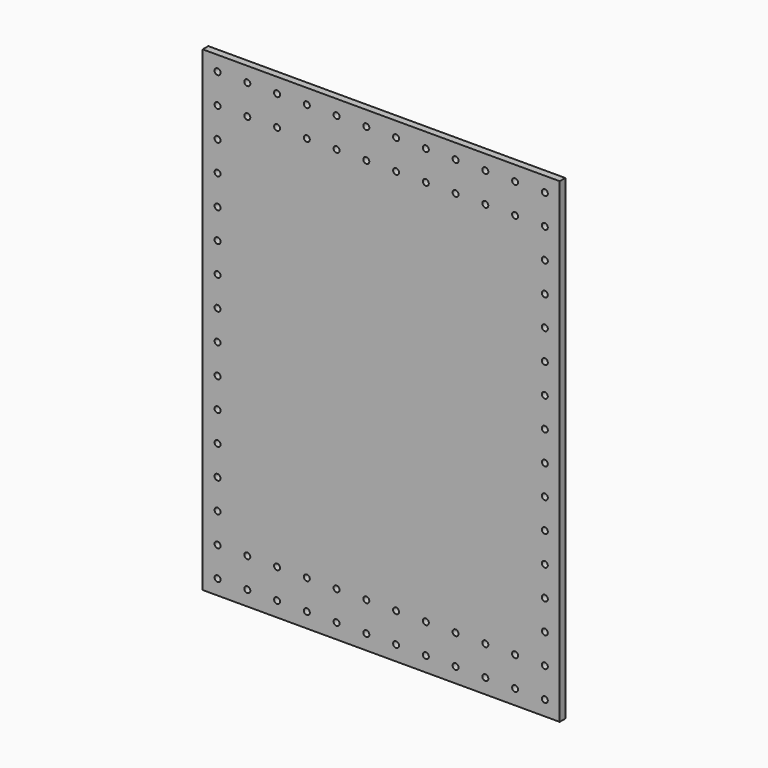
from build123d import *

# Parameters (mm, degrees)
F0_W     = 304.8
F0_H     = 406.4
F0_R     = 2.5527
F1_DEPTH = 6


with BuildPart() as f1:
    # F0 (on Front) → F1 (new body)
    with BuildSketch(Plane.XZ):
        Rectangle(F0_W, F0_H)
        with Locations((-139.7, -190.5)):
            Circle(F0_R, mode=Mode.SUBTRACT)
        with Locations((-139.7, -165.1)):
            Circle(F0_R, mode=Mode.SUBTRACT)
        with Locations((-114.3, -190.5)):
            Circle(F0_R, mode=Mode.SUBTRACT)
        with Locations((-88.9, -190.5)):
            Circle(F0_R, mode=Mode.SUBTRACT)
        with Locations((-114.3, -165.1)):
            Circle(F0_R, mode=Mode.SUBTRACT)
        with Locations((-88.9, -165.1)):
            Circle(F0_R, mode=Mode.SUBTRACT)
        with Locations((-139.7, -139.7)):
            Circle(F0_R, mode=Mode.SUBTRACT)
        with Locations((-139.7, -114.3)):
            Circle(F0_R, mode=Mode.SUBTRACT)
        with Locations((-63.5, -190.5)):
            Circle(F0_R, mode=Mode.SUBTRACT)
        with Locations((-63.5, -165.1)):
            Circle(F0_R, mode=Mode.SUBTRACT)
        with Locations((-38.1, -190.5)):
            Circle(F0_R, mode=Mode.SUBTRACT)
        with Locations((-12.7, -190.5)):
            Circle(F0_R, mode=Mode.SUBTRACT)
        with Locations((-38.1, -165.1)):
            Circle(F0_R, mode=Mode.SUBTRACT)
        with Locations((-12.7, -165.1)):
            Circle(F0_R, mode=Mode.SUBTRACT)
        with Locations((-139.7, -88.9)):
            Circle(F0_R, mode=Mode.SUBTRACT)
        with Locations((-139.7, -63.5)):
            Circle(F0_R, mode=Mode.SUBTRACT)
        with Locations((-139.7, -38.1)):
            Circle(F0_R, mode=Mode.SUBTRACT)
        with Locations((-139.7, -12.7)):
            Circle(F0_R, mode=Mode.SUBTRACT)
        with Locations((12.7, -190.5)):
            Circle(F0_R, mode=Mode.SUBTRACT)
        with Locations((12.7, -165.1)):
            Circle(F0_R, mode=Mode.SUBTRACT)
        with Locations((38.1, -190.5)):
            Circle(F0_R, mode=Mode.SUBTRACT)
        with Locations((63.5, -190.5)):
            Circle(F0_R, mode=Mode.SUBTRACT)
        with Locations((38.1, -165.1)):
            Circle(F0_R, mode=Mode.SUBTRACT)
        with Locations((63.5, -165.1)):
            Circle(F0_R, mode=Mode.SUBTRACT)
        with Locations((88.9, -190.5)):
            Circle(F0_R, mode=Mode.SUBTRACT)
        with Locations((88.9, -165.1)):
            Circle(F0_R, mode=Mode.SUBTRACT)
        with Locations((114.3, -190.5)):
            Circle(F0_R, mode=Mode.SUBTRACT)
        with Locations((139.7, -190.5)):
            Circle(F0_R, mode=Mode.SUBTRACT)
        with Locations((114.3, -165.1)):
            Circle(F0_R, mode=Mode.SUBTRACT)
        with Locations((139.7, -165.1)):
            Circle(F0_R, mode=Mode.SUBTRACT)
        with Locations((139.7, -139.7)):
            Circle(F0_R, mode=Mode.SUBTRACT)
        with Locations((139.7, -114.3)):
            Circle(F0_R, mode=Mode.SUBTRACT)
        with Locations((139.7, -88.9)):
            Circle(F0_R, mode=Mode.SUBTRACT)
        with Locations((139.7, -63.5)):
            Circle(F0_R, mode=Mode.SUBTRACT)
        with Locations((139.7, -38.1)):
            Circle(F0_R, mode=Mode.SUBTRACT)
        with Locations((139.7, -12.7)):
            Circle(F0_R, mode=Mode.SUBTRACT)
        with Locations((-139.7, 12.7)):
            Circle(F0_R, mode=Mode.SUBTRACT)
        with Locations((-139.7, 38.1)):
            Circle(F0_R, mode=Mode.SUBTRACT)
        with Locations((-139.7, 63.5)):
            Circle(F0_R, mode=Mode.SUBTRACT)
        with Locations((-139.7, 88.9)):
            Circle(F0_R, mode=Mode.SUBTRACT)
        with Locations((-139.7, 114.3)):
            Circle(F0_R, mode=Mode.SUBTRACT)
        with Locations((-139.7, 139.7)):
            Circle(F0_R, mode=Mode.SUBTRACT)
        with Locations((-139.7, 165.1)):
            Circle(F0_R, mode=Mode.SUBTRACT)
        with Locations((-139.7, 190.5)):
            Circle(F0_R, mode=Mode.SUBTRACT)
        with Locations((-114.3, 165.1)):
            Circle(F0_R, mode=Mode.SUBTRACT)
        with Locations((-88.9, 165.1)):
            Circle(F0_R, mode=Mode.SUBTRACT)
        with Locations((-114.3, 190.5)):
            Circle(F0_R, mode=Mode.SUBTRACT)
        with Locations((-88.9, 190.5)):
            Circle(F0_R, mode=Mode.SUBTRACT)
        with Locations((-63.5, 165.1)):
            Circle(F0_R, mode=Mode.SUBTRACT)
        with Locations((-63.5, 190.5)):
            Circle(F0_R, mode=Mode.SUBTRACT)
        with Locations((-38.1, 165.1)):
            Circle(F0_R, mode=Mode.SUBTRACT)
        with Locations((-12.7, 165.1)):
            Circle(F0_R, mode=Mode.SUBTRACT)
        with Locations((-38.1, 190.5)):
            Circle(F0_R, mode=Mode.SUBTRACT)
        with Locations((-12.7, 190.5)):
            Circle(F0_R, mode=Mode.SUBTRACT)
        with Locations((139.7, 12.7)):
            Circle(F0_R, mode=Mode.SUBTRACT)
        with Locations((139.7, 38.1)):
            Circle(F0_R, mode=Mode.SUBTRACT)
        with Locations((139.7, 63.5)):
            Circle(F0_R, mode=Mode.SUBTRACT)
        with Locations((139.7, 88.9)):
            Circle(F0_R, mode=Mode.SUBTRACT)
        with Locations((12.7, 165.1)):
            Circle(F0_R, mode=Mode.SUBTRACT)
        with Locations((12.7, 190.5)):
            Circle(F0_R, mode=Mode.SUBTRACT)
        with Locations((38.1, 165.1)):
            Circle(F0_R, mode=Mode.SUBTRACT)
        with Locations((63.5, 165.1)):
            Circle(F0_R, mode=Mode.SUBTRACT)
        with Locations((38.1, 190.5)):
            Circle(F0_R, mode=Mode.SUBTRACT)
        with Locations((63.5, 190.5)):
            Circle(F0_R, mode=Mode.SUBTRACT)
        with Locations((139.7, 114.3)):
            Circle(F0_R, mode=Mode.SUBTRACT)
        with Locations((139.7, 139.7)):
            Circle(F0_R, mode=Mode.SUBTRACT)
        with Locations((88.9, 165.1)):
            Circle(F0_R, mode=Mode.SUBTRACT)
        with Locations((88.9, 190.5)):
            Circle(F0_R, mode=Mode.SUBTRACT)
        with Locations((114.3, 165.1)):
            Circle(F0_R, mode=Mode.SUBTRACT)
        with Locations((139.7, 165.1)):
            Circle(F0_R, mode=Mode.SUBTRACT)
        with Locations((114.3, 190.5)):
            Circle(F0_R, mode=Mode.SUBTRACT)
        with Locations((139.7, 190.5)):
            Circle(F0_R, mode=Mode.SUBTRACT)
    extrude(amount=F1_DEPTH)


solid = f1.part
